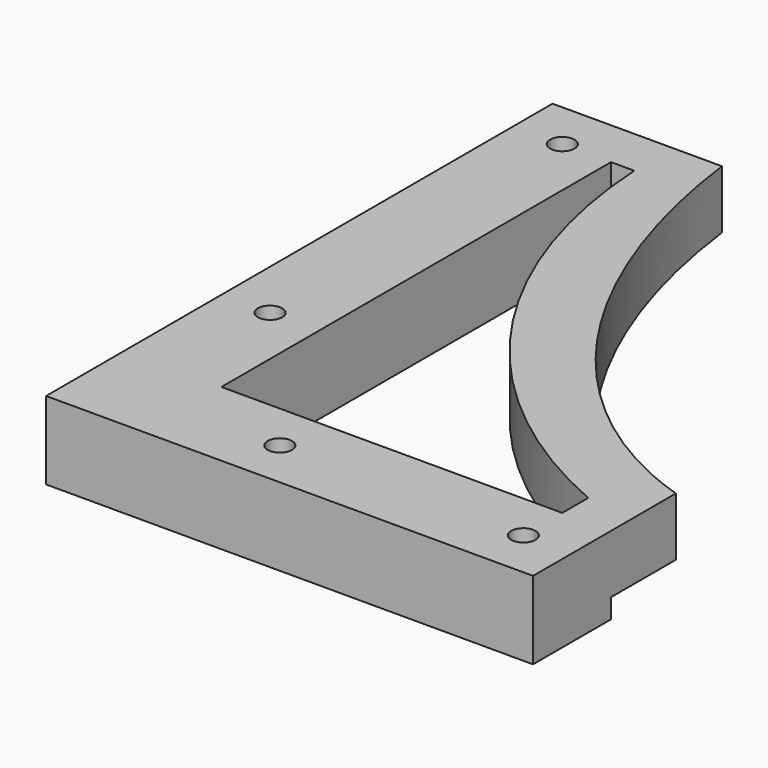
from build123d import *

# Parameters (mm, degrees)
F1_DEPTH  = 12
F2_W      = 100
F2_H      = 20
F3_DEPTH  = 5
F4_W      = 135
F4_H      = 20
F5_DEPTH  = 5
F7_R      = 2.5
F8_DEPTH  = 25
F9_DEPTH  = 5
F10_W     = 20
F10_H     = 20
F10_W_2   = 100
F10_H_2   = 130
F11_DEPTH = 25
F12_W     = 130
F12_H     = 9
F13_DEPTH = 100.0010001
F15_DEPTH = 12.0010001


with BuildPart() as f1:
    # F0 (on Top) → F1 (new body)
    with BuildSketch(Plane.XY):
        with BuildLine():
            add(Edge.make_bspline(
                [(-86.5, 0), (-86.5, -116.5), (0, -116.5)],
                knots=[1.5707963268, 1.5707963268, 1.5707963268, 3.1415926536, 3.1415926536, 3.1415926536], degree=2, weights=[1, 0.7071067812, 1]))
            Line((-86.5, 0), (-86.5, -116.5))
            Line((-86.5, -116.5), (0, -116.5))
        make_face()
        Polygon((-86.5, -116.5), (-86.5, 0), (-100, 0), (-100, -130), (0, -130), (0, -116.5), align=None)
    extrude(amount=F1_DEPTH)

    # F2 (on face) → F3 (join)
    with BuildSketch(Plane.XZ.offset(130)):
        with Locations((-50, 6)):
            Rectangle(F2_W, F2_H)
    extrude(amount=F3_DEPTH)

    # F4 (on face) → F5 (join)
    with BuildSketch(Plane(origin=(-100, 0, 0), x_dir=(0, -1, 0), z_dir=(-1, 0, 0))):
        with Locations((67.5, 6)):
            Rectangle(F4_W, F4_H)
    extrude(amount=F5_DEPTH)

    # F7 (on face) → F8 (join)
    with BuildSketch(Plane(origin=(0, 0, -4), x_dir=(1, 0, 0), z_dir=(0, 0, -1))):
        Polygon((0, 135), (0, 150), (-120, 150), (-120, 0), (-105, 0), (-105, 135), align=None)
        with Locations((-110, 30)):
            Circle(F7_R, mode=Mode.SUBTRACT)
        with Locations((-110, 105)):
            Circle(F7_R, mode=Mode.SUBTRACT)
        with Locations((-80, 140)):
            Circle(F7_R, mode=Mode.SUBTRACT)
        with Locations((-30, 140)):
            Circle(F7_R, mode=Mode.SUBTRACT)
    extrude(amount=-F8_DEPTH)

    # F6 (on face) → F9 (join)
    with BuildSketch(Plane.XY.offset(16)):
        Polygon((-90, 0), (-105, 0), (-105, -135), (0, -135), (0, -120), (-90, -120), align=None)
    extrude(amount=F9_DEPTH)

    # F10 (on Top) → F11 (cut, symmetric)
    with BuildSketch(Plane.XY):
        with Locations((-10, -10)):
            Rectangle(F10_W, F10_H)
        with Locations((-70, -10)):
            Rectangle(F10_W_2, F10_H)
        with Locations((-10, -85)):
            Rectangle(F10_W, F10_H_2)
    extrude(amount=F11_DEPTH, both=True, mode=Mode.SUBTRACT)

    # F12 (on face) → F13 (cut, through all)
    with BuildSketch(Plane.YZ.offset(-20)):
        with Locations((-85, 16.5)):
            Rectangle(F12_W, F12_H)
    extrude(amount=-F13_DEPTH, mode=Mode.SUBTRACT)

    # F14 (on face) → F15 (cut, through all)
    with BuildSketch(Plane(origin=(0, 0, 0), x_dir=(1, 0, 0), z_dir=(0, 0, -1))):
        with BuildLine():
            Line((-30, 130), (-100, 130))
            Line((-100, 130), (-100, 30))
            Line((-100, 30), (-95.2158076494, 30))
            ThreePointArc((-95.2158076494, 30), (-75.8232238431, 85.9047045014), (-30, 123.3431933691))
            Line((-30, 123.3431933691), (-30, 130))
        make_face()
    extrude(amount=-F15_DEPTH, mode=Mode.SUBTRACT)


solid = f1.part
